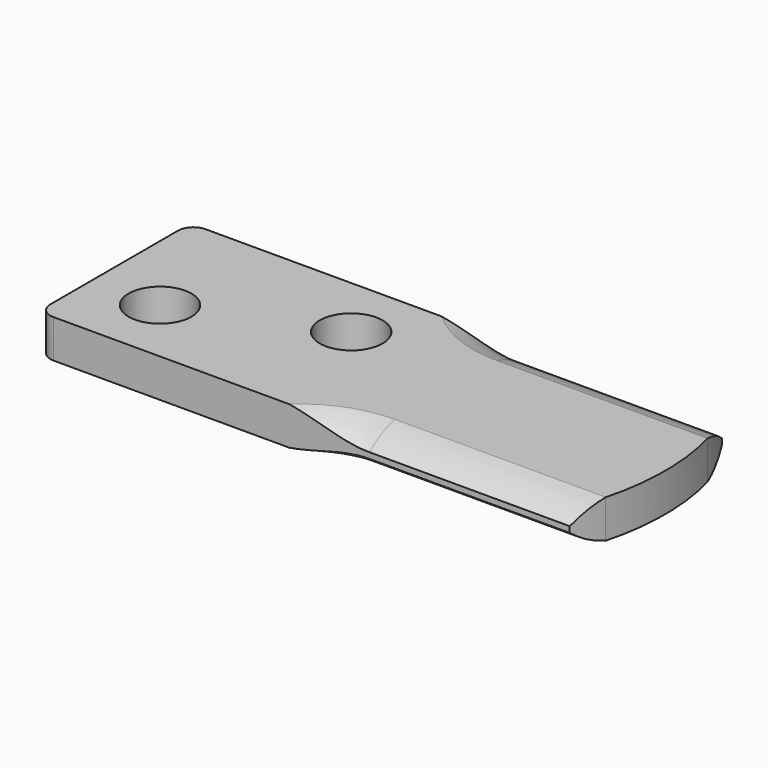
from build123d import *

# Parameters (mm, degrees)
F0_R     = 3.2512
F1_DEPTH = 3.9624


with BuildPart() as f1:
    # F0 (on Top) → F1 (new body)
    with BuildSketch(Plane.XY):
        with BuildLine():
            ThreePointArc((1.5875, 9.8425), (0.464968, 9.377532), (0, 8.255))
            Line((0, 8.255), (0, -8.255))
            ThreePointArc((0, -8.255), (0.464968, -9.377532), (1.5875, -9.8425))
            Line((1.5875, -9.8425), (26.001034, -9.8425))
            ThreePointArc((26.001034, -9.8425), (29.838111, -7.433166), (34.29, -6.5913))
            Line((34.29, -6.5913), (56.127475, -6.5913))
            ThreePointArc((56.127475, -6.5913), (56.9976, 0), (56.127475, 6.5913))
            Line((56.127475, 6.5913), (34.29, 6.5913))
            ThreePointArc((34.29, 6.5913), (29.838111, 7.433166), (26.001034, 9.8425))
            Line((26.001034, 9.8425), (1.5875, 9.8425))
        make_face()
        with Locations((7.0104, -2.8321)):
            Circle(F0_R, mode=Mode.SUBTRACT)
        with Locations((21.9964, 3.1623)):
            Circle(F0_R, mode=Mode.SUBTRACT)
        with BuildLine():
            Line((55.01309, 9.8425), (26.001034, 9.8425))
            ThreePointArc((26.001034, 9.8425), (29.838111, 7.433166), (34.29, 6.5913))
            Line((34.29, 6.5913), (56.127475, 6.5913))
            ThreePointArc((56.127475, 6.5913), (55.625336, 8.23577), (55.01309, 9.8425))
        make_face()
        with BuildLine():
            ThreePointArc((34.29, -6.5913), (29.838111, -7.433166), (26.001034, -9.8425))
            Line((26.001034, -9.8425), (55.01309, -9.8425))
            ThreePointArc((55.01309, -9.8425), (55.625336, -8.23577), (56.127475, -6.5913))
            Line((56.127475, -6.5913), (34.29, -6.5913))
        make_face()
    extrude(amount=F1_DEPTH)

    # F4: sweep along a path in F0
    with BuildLine(Plane.XY) as f4_path:
        Line((60.852341, 6.5913), (34.29, 6.5913))
        ThreePointArc((34.29, 6.5913), (29.838111, 7.433166), (26.001034, 9.8425))
    # F3 (on offset) → F4 (sweep, cut)
    with BuildSketch(Plane.YZ.offset(56.9976)):
        with BuildLine():
            Line((13.0175, 1.6764), (9.8425, 1.6764))
            ThreePointArc((9.8425, 1.6764), (8.313989, 0.649906), (6.5913, 0))
            Line((6.5913, 0), (6.5913, -3.175))
            Line((6.5913, -3.175), (13.0175, -3.175))
            Line((13.0175, -3.175), (13.0175, 1.6764))
        make_face()
        with BuildLine():
            ThreePointArc((6.5913, 3.9624), (8.313989, 3.312494), (9.8425, 2.286))
            Line((9.8425, 2.286), (13.0175, 2.286))
            Line((13.0175, 2.286), (13.0175, 7.1374))
            Line((13.0175, 7.1374), (6.5913, 7.1374))
            Line((6.5913, 7.1374), (6.5913, 3.9624))
        make_face()
    sweep(path=f4_path.line, mode=Mode.SUBTRACT)

    # F5: sweep along a path in F0
    with BuildLine(Plane.XY) as f5_path:
        Line((60.852341, -6.5913), (34.29, -6.5913))
        ThreePointArc((34.29, -6.5913), (29.838111, -7.433166), (26.001034, -9.8425))
    # F3 (on offset) → F5 (sweep, cut)
    with BuildSketch(Plane.YZ.offset(56.9976)):
        with BuildLine():
            Line((-6.5913, -3.175), (-6.5913, 0))
            ThreePointArc((-6.5913, 0), (-8.313989, 0.649906), (-9.8425, 1.6764))
            Line((-9.8425, 1.6764), (-13.02766, 1.6764))
            Line((-13.02766, 1.6764), (-13.02766, -3.175))
            Line((-13.02766, -3.175), (-6.5913, -3.175))
        make_face()
        with BuildLine():
            ThreePointArc((-9.8425, 2.286), (-8.313989, 3.312494), (-6.5913, 3.9624))
            Line((-6.5913, 3.9624), (-6.5913, 7.1374))
            Line((-6.5913, 7.1374), (-13.02766, 7.1374))
            Line((-13.02766, 7.1374), (-13.02766, 2.286))
            Line((-13.02766, 2.286), (-9.8425, 2.286))
        make_face()
    sweep(path=f5_path.line, mode=Mode.SUBTRACT)


solid = f1.part
